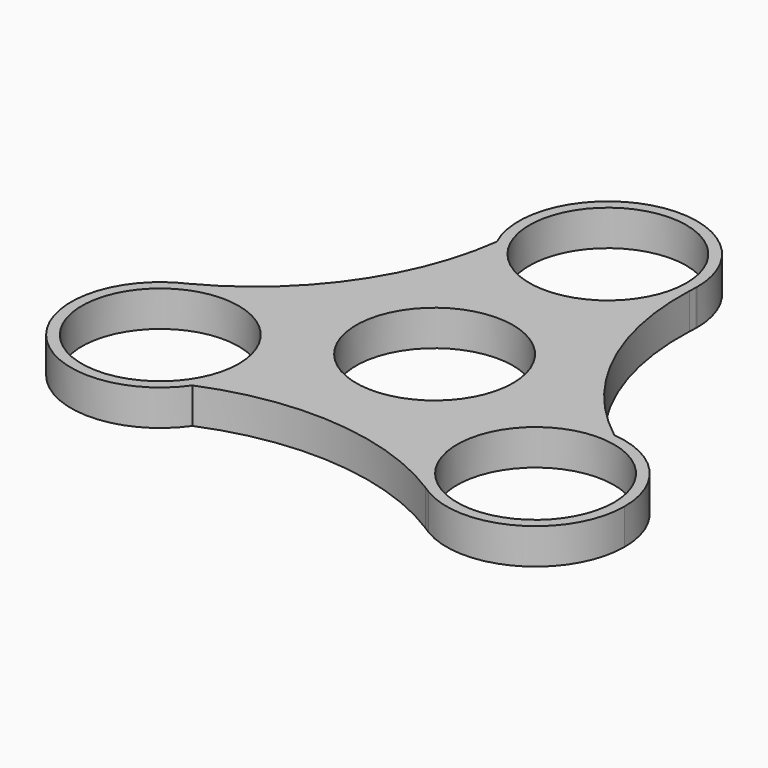
from build123d import *

# Parameters (mm, degrees)
F0_R     = 11
F1_DEPTH = 5


with BuildPart() as f1:
    # F0 (on Top) → F1 (new body)
    with BuildSketch(Plane.XY):
        with BuildLine():
            ThreePointArc((12.4395517847, 29.144868932), (2.1022724146, 18.050742823), (-11.3287309387, 25.0897148944))
            ThreePointArc((-11.3287309387, 25.0897148944), (-17.8601102431, 8.1823104193), (-31.4599727774, -3.7994666088))
            ThreePointArc((-31.4599727774, -3.7994666088), (-19.5287768761, -4.6814519196), (-13.8035235271, -15.186346389))
            ThreePointArc((-13.8035235271, -15.186346389), (-14.3820202336, -18.9450375474), (-16.0639650029, -22.3558262327))
            ThreePointArc((-16.0639650029, -22.3558262327), (1.8439664368, -19.5584643945), (19.0204209927, -25.3454023232))
            ThreePointArc((19.0204209927, -25.3454023232), (14.5812656346, -10.8459927282), (27.3926959416, -2.7338886617))
            ThreePointArc((27.3926959416, -2.7338886617), (16.0161438063, 11.3761539752), (12.4395517847, 29.144868932))
        make_face()
        Circle(F0_R, mode=Mode.SUBTRACT)
        with BuildLine():
            ThreePointArc((12.4990327141, 30.2171896857), (12.4997581762, 30.2949397277), (12.5, 30.372692778))
            ThreePointArc((12.5, 30.372692778), (-2.7056296186, 42.5763630606), (-11.3287309387, 25.0897148944))
            ThreePointArc((-11.3287309387, 25.0897148944), (2.1022724146, 18.050742823), (12.4395517847, 29.144868932))
            ThreePointArc((12.4395517847, 29.144868932), (12.465516848, 29.6812387279), (12.4990327141, 30.2171896857))
        make_face()
        with Locations((0, 30.372692778)):
            Circle(F0_R, mode=Mode.SUBTRACT)
        with BuildLine():
            ThreePointArc((38.8035235271, -15.186346389), (35.519397202, -6.7413672647), (27.3926959416, -2.7338886617))
            ThreePointArc((27.3926959416, -2.7338886617), (14.5812656346, -10.8459927282), (19.0204209927, -25.3454023232))
            ThreePointArc((19.0204209927, -25.3454023232), (19.4719483301, -25.6360736256), (19.9193375417, -25.933074696))
            ThreePointArc((19.9193375417, -25.933074696), (32.4860664984, -26.0503310359), (38.8035235271, -15.186346389))
        make_face()
        with Locations((26.3035235271, -15.186346389)):
            Circle(F0_R, mode=Mode.SUBTRACT)
        with BuildLine():
            ThreePointArc((-13.8035235271, -15.186346389), (-19.5287768761, -4.6814519196), (-31.4599727774, -3.7994666088))
            ThreePointArc((-31.4599727774, -3.7994666088), (-31.9374651781, -4.0451651022), (-32.4183702558, -4.2841149897))
            ThreePointArc((-32.4183702558, -4.2841149897), (-35.5717487435, -23.5738371543), (-16.0639650029, -22.3558262327))
            ThreePointArc((-16.0639650029, -22.3558262327), (-14.3820202336, -18.9450375474), (-13.8035235271, -15.186346389))
        make_face()
        with Locations((-26.3035235271, -15.186346389)):
            Circle(F0_R, mode=Mode.SUBTRACT)
    extrude(amount=F1_DEPTH)


solid = f1.part
